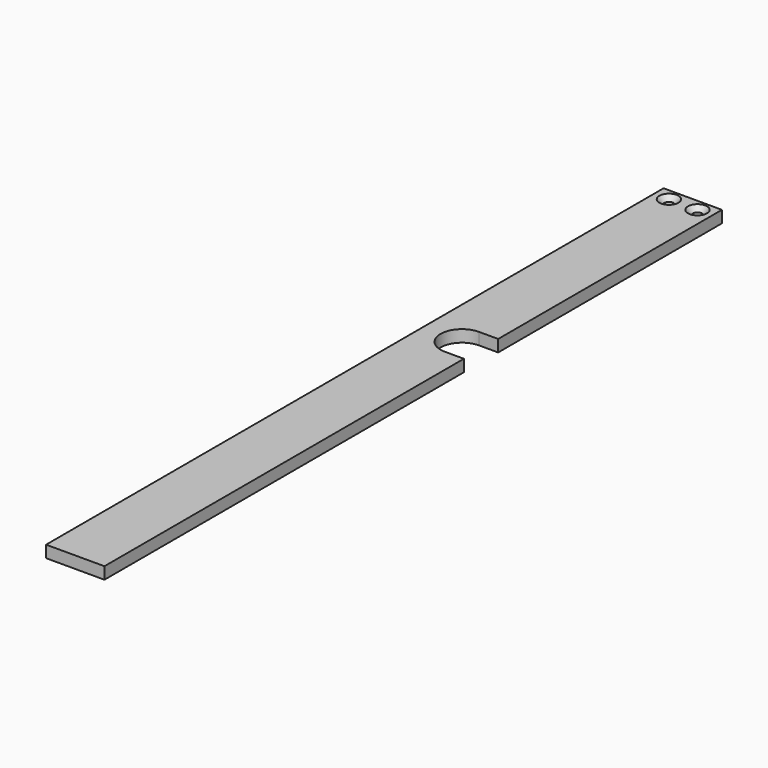
from build123d import *

# Parameters (mm, degrees)
PAD028_DEPTH    = 5
SKETCH060_R     = 2
POCKET038_DEPTH = 5.001
CHAMFER022_SIZE = 2


with BuildPart() as part:
    # Sketch055 → Pad028 (new body)
    with BuildSketch(Plane.XY):
        with BuildLine():
            Line((98.676816, 80.800335), (98.676816, -107.8))
            Line((98.676816, -107.8), (74.176816, -107.8))
            Line((74.176816, -107.8), (74.176816, 216.2))
            Line((74.176816, 216.2), (98.676816, 216.2))
            Line((98.676816, 216.2), (98.676816, 98.800335))
            Line((90.676816, 98.800335), (98.676816, 98.800335))
            ThreePointArc((90.676816, 98.800335), (81.676816, 89.800335), (90.676816, 80.800335))
            Line((90.676816, 80.800335), (98.676816, 80.800335))
        make_face()
    extrude(amount=PAD028_DEPTH)

    # Sketch060 (on Face10 of Pad028) → Pocket038 (cut, through all)
    with BuildSketch(Plane.XY.offset(5)):
        with Locations((80.426816, 211.2)):
            Circle(SKETCH060_R)
        with Locations((92.426816, 211.2)):
            Circle(SKETCH060_R)
    extrude(amount=-POCKET038_DEPTH, mode=Mode.SUBTRACT)

    # Chamfer022
    chamfer022_edges = [part.edges().sort_by_distance(p)[0] for p in [
        (78.426816, 211.2, 5),
        (90.426816, 211.2, 5),
    ]]
    chamfer(chamfer022_edges, length=CHAMFER022_SIZE)


with BuildPart() as part_1:
    # Body021 placement: moved
    add(part.part.moved(Location((-150, 0, 15.5))))


with BuildPart() as part_2:
    # Clone003 placement: moved
    add(part_1.part.moved(Location((195.823184, 107.8, -20.5))))


solid = part_2.part
